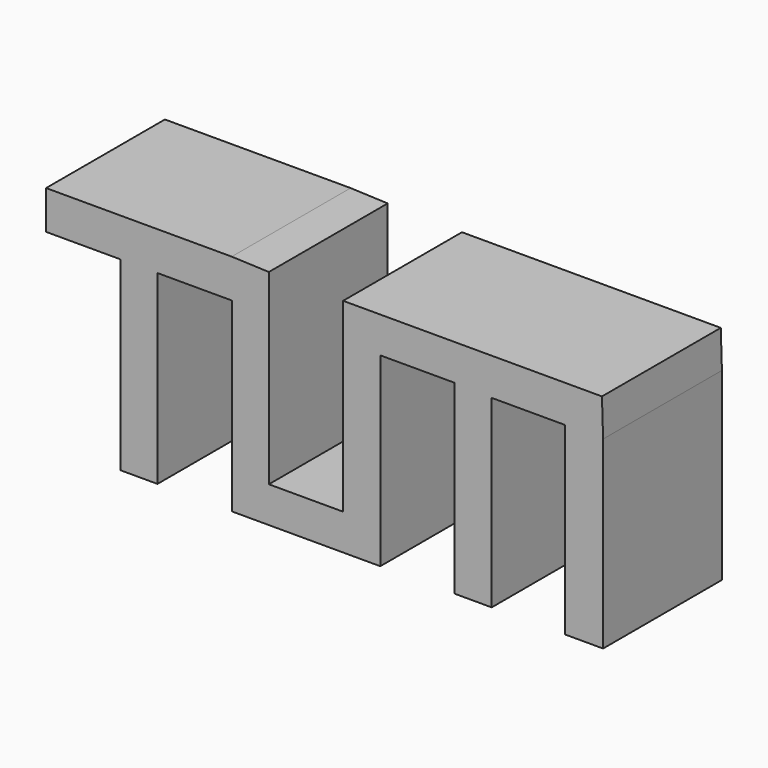
from build123d import *

# Parameters (mm, degrees)
F1_DEPTH = 25.4
F2_DEPTH = 50.8


with BuildPart() as f1:
    # F0 (on Front) → F1 (new body)
    with BuildSketch(Plane.XZ):
        Polygon((-111.158534, 88.9), (-111.158534, 25.4), (-98.458534, 25.4), (-98.458534, 88.9), (-73.058534, 88.9), (-73.058534, 25.4), (-60.368283, 25.4), (-22.258534, 25.4), (-22.258534, 88.9), (3.141466, 88.9), (3.141466, 25.4), (15.841466, 25.4), (15.841466, 88.48481), (40.853689, 88.48481), (40.853689, 25.4), (53.941466, 25.4), (53.941466, 88.48481), (53.553689, 101.18481), (40.853689, 101.18481), (15.841466, 101.18481), (3.141466, 101.18481), (-22.258534, 101.18481), (-34.968283, 101.18481), (-34.968283, 37.68481), (-60.368283, 37.68481), (-60.368283, 101.6), (-73.058534, 102.097516), (-136.558534, 102.097516), (-136.558534, 88.9), align=None)
    extrude(amount=F1_DEPTH)

    # F0 (on Front) → F2 (join)
    with BuildSketch(Plane.XZ):
        Polygon((-111.158534, 88.9), (-111.158534, 25.4), (-98.458534, 25.4), (-98.458534, 88.9), (-73.058534, 88.9), (-73.058534, 25.4), (-60.368283, 25.4), (-22.258534, 25.4), (-22.258534, 88.9), (3.141466, 88.9), (3.141466, 25.4), (15.841466, 25.4), (15.841466, 88.48481), (40.853689, 88.48481), (40.853689, 25.4), (53.941466, 25.4), (53.941466, 88.48481), (53.553689, 101.18481), (40.853689, 101.18481), (15.841466, 101.18481), (3.141466, 101.18481), (-22.258534, 101.18481), (-34.968283, 101.18481), (-34.968283, 37.68481), (-60.368283, 37.68481), (-60.368283, 101.6), (-73.058534, 102.097516), (-136.558534, 102.097516), (-136.558534, 88.9), align=None)
    extrude(amount=F2_DEPTH)


solid = f1.part
